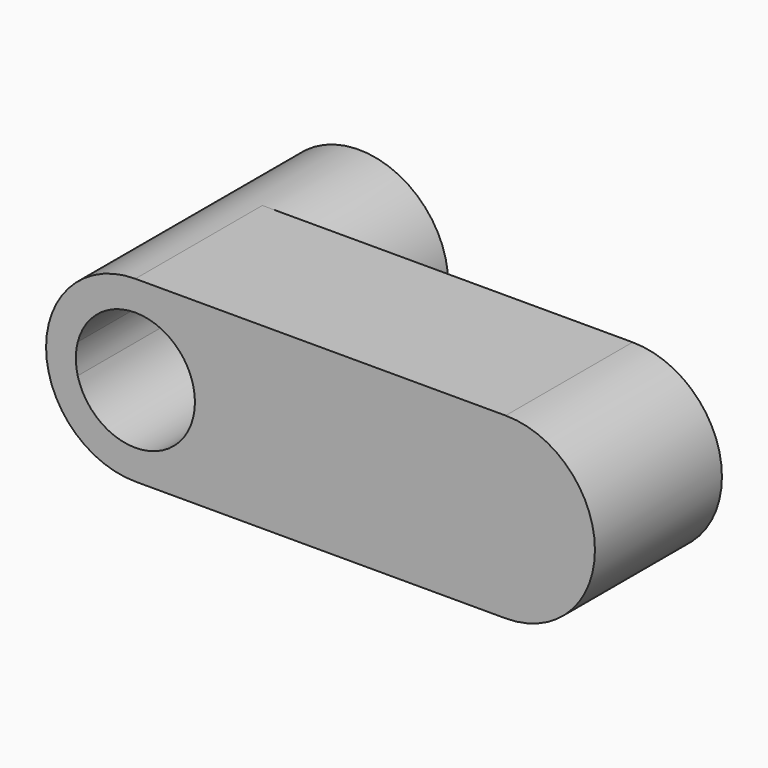
from build123d import *

# Parameters (mm, degrees)
F0_R     = 19.05
F1_DEPTH = 50.8
F2_DEPTH = 38.6862


with BuildPart() as f1:
    # F0 (on Front) → F1 (new body)
    with BuildSketch(Plane.XZ):
        with BuildLine():
            ThreePointArc((0, 28.575), (20.2055762724, 20.2055762724), (28.575, 0))
            ThreePointArc((28.575, 0), (20.2055762724, -20.2055762724), (0, -28.575))
            Line((0, -28.575), (118.5139659176, -28.575))
            ThreePointArc((118.5139659176, -28.575), (89.9389659176, 0), (118.5139659176, 28.575))
            Line((118.5139659176, 28.575), (0, 28.575))
        make_face()
        with BuildLine():
            ThreePointArc((147.0889659176, 0), (138.71954219, 20.2055762724), (118.5139659176, 28.575))
            ThreePointArc((118.5139659176, 28.575), (89.9389659176, 0), (118.5139659176, -28.575))
            ThreePointArc((118.5139659176, -28.575), (138.71954219, -20.2055762724), (147.0889659176, 0))
        make_face()
        with Locations((118.5139659176, 0)):
            Circle(F0_R, mode=Mode.SUBTRACT)
        with BuildLine():
            ThreePointArc((0, -28.575), (20.2055762724, -20.2055762724), (28.575, 0))
            ThreePointArc((28.575, 0), (20.2055762724, 20.2055762724), (0, 28.575))
            ThreePointArc((0, 28.575), (-28.575, 0), (0, -28.575))
        make_face()
        with BuildLine():
            ThreePointArc((-18.4450831863, 4.7625), (0, 19.05), (18.4450831863, 4.7625))
            Line((18.4450831863, 4.7625), (25.4, 4.7625))
            Line((25.4, 4.7625), (25.4, -4.7625))
            Line((25.4, -4.7625), (18.4450831863, -4.7625))
            ThreePointArc((18.4450831863, -4.7625), (0, -19.05), (-18.4450831863, -4.7625))
            Line((-18.4450831863, -4.7625), (-25.4, -4.7625))
            Line((-25.4, -4.7625), (-25.4, 4.7625))
            Line((-25.4, 4.7625), (-18.4450831863, 4.7625))
        make_face(mode=Mode.SUBTRACT)
        with Locations((118.5139659176, 0)):
            Circle(F0_R)
        with BuildLine():
            ThreePointArc((-18.4450831863, -4.7625), (-19.05, 0), (-18.4450831863, 4.7625))
            Line((-18.4450831863, 4.7625), (-25.4, 4.7625))
            Line((-25.4, 4.7625), (-25.4, -4.7625))
            Line((-25.4, -4.7625), (-18.4450831863, -4.7625))
        make_face()
        with BuildLine():
            ThreePointArc((18.4450831863, 4.7625), (18.8981657139, 2.4003817718), (19.05, 0))
            ThreePointArc((19.05, 0), (18.8981657139, -2.4003817718), (18.4450831863, -4.7625))
            Line((18.4450831863, -4.7625), (25.4, -4.7625))
            Line((25.4, -4.7625), (25.4, 4.7625))
            Line((25.4, 4.7625), (18.4450831863, 4.7625))
        make_face()
    extrude(amount=F1_DEPTH)

    # F0 (on Front) → F2 (join)
    with BuildSketch(Plane.XZ):
        with BuildLine():
            ThreePointArc((0, -28.575), (20.2055762724, -20.2055762724), (28.575, 0))
            ThreePointArc((28.575, 0), (20.2055762724, 20.2055762724), (0, 28.575))
            ThreePointArc((0, 28.575), (-28.575, 0), (0, -28.575))
        make_face()
        with BuildLine():
            ThreePointArc((-18.4450831863, 4.7625), (0, 19.05), (18.4450831863, 4.7625))
            Line((18.4450831863, 4.7625), (25.4, 4.7625))
            Line((25.4, 4.7625), (25.4, -4.7625))
            Line((25.4, -4.7625), (18.4450831863, -4.7625))
            ThreePointArc((18.4450831863, -4.7625), (0, -19.05), (-18.4450831863, -4.7625))
            Line((-18.4450831863, -4.7625), (-25.4, -4.7625))
            Line((-25.4, -4.7625), (-25.4, 4.7625))
            Line((-25.4, 4.7625), (-18.4450831863, 4.7625))
        make_face(mode=Mode.SUBTRACT)
        with BuildLine():
            ThreePointArc((18.4450831863, -4.7625), (18.8981657139, -2.4003817718), (19.05, 0))
            ThreePointArc((19.05, 0), (18.8981657139, 2.4003817718), (18.4450831863, 4.7625))
            Line((18.4450831863, 4.7625), (-18.4450831863, 4.7625))
            ThreePointArc((-18.4450831863, 4.7625), (-19.05, 0), (-18.4450831863, -4.7625))
            Line((-18.4450831863, -4.7625), (18.4450831863, -4.7625))
        make_face()
    extrude(amount=-F2_DEPTH)


solid = f1.part
